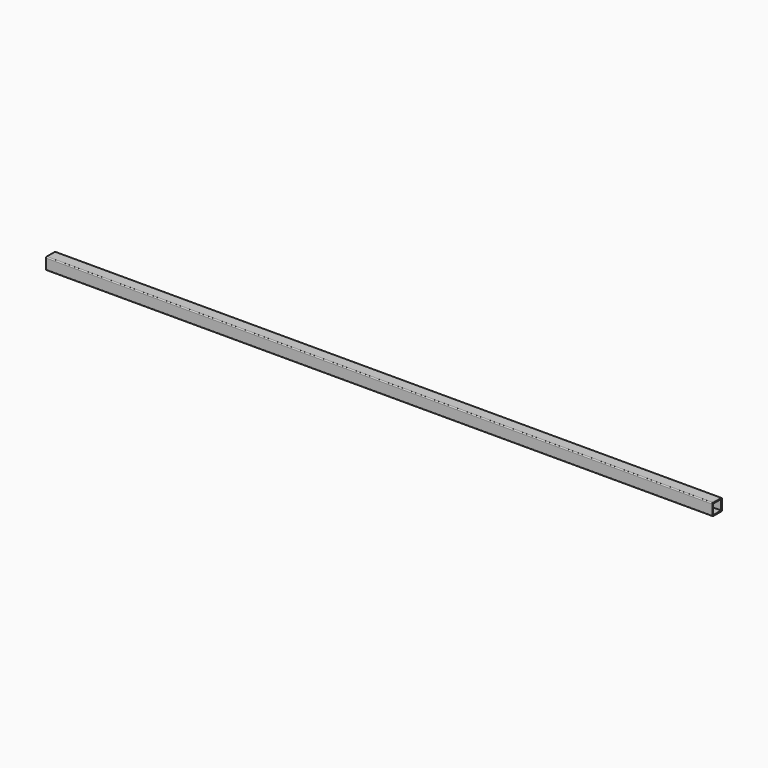
from build123d import *

# Parameters (mm, degrees)
F0_W     = 42
F0_H     = 42
F1_DEPTH = 1400


with BuildPart() as f1:
    # F0 (on Right) → F1 (new body, symmetric)
    with BuildSketch(Plane.YZ):
        with BuildLine():
            Line((21, 25), (-21, 25))
            ThreePointArc((-21, 25), (-23.828427, 23.828427), (-25, 21))
            Line((-25, 21), (-25, -21))
            ThreePointArc((-25, -21), (-23.828427, -23.828427), (-21, -25))
            Line((-21, -25), (21, -25))
            ThreePointArc((21, -25), (23.828427, -23.828427), (25, -21))
            Line((25, -21), (25, 21))
            ThreePointArc((25, 21), (23.828427, 23.828427), (21, 25))
        make_face()
        Rectangle(F0_W, F0_H, mode=Mode.SUBTRACT)
    extrude(amount=F1_DEPTH, both=True)


solid = f1.part
